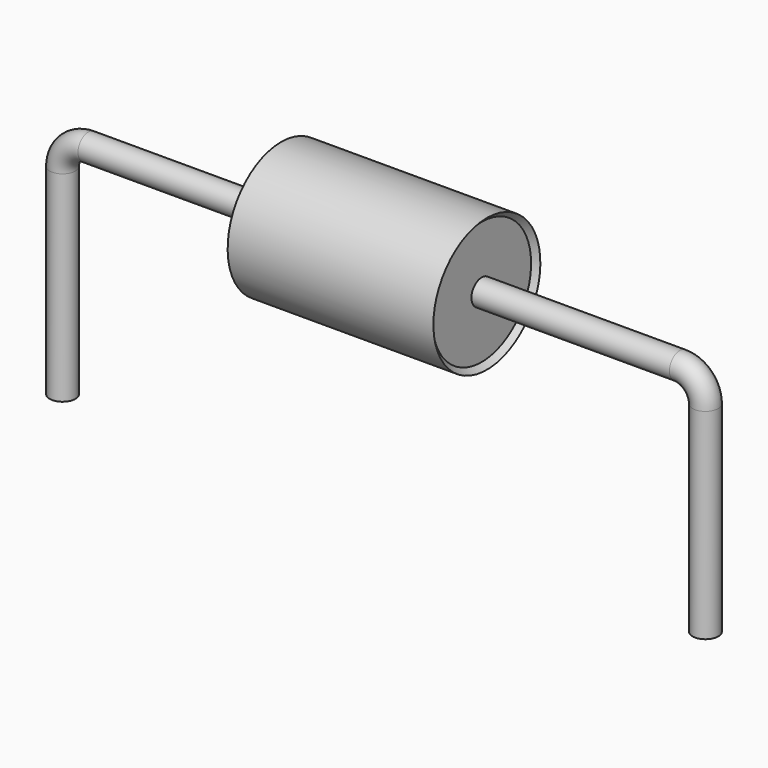
from build123d import *

# Parameters (mm, degrees)
SKETCH_R = 0.25


with BuildPart() as sweep_body:
    # Sweep: sweep along a path in Sketch001
    with BuildLine(Plane.XZ) as sweep_path:
        Line((0, -3), (0, 0.9))
        ThreePointArc((0, 0.9), (0.146443, 1.25355), (0.499991, 1.4))
        Line((0.499991, 1.4), (12, 1.4))
        ThreePointArc((12, 1.4), (12.353553, 1.253553), (12.5, 0.9))
        Line((12.5, 0.9), (12.5, -3))
    # Sketch → Sweep (sweep)
    with BuildSketch(Plane.XY.offset(-2)):
        Circle(SKETCH_R)
    sweep(path=sweep_path.line)


with BuildPart() as revolution:
    # Sketch002 → Revolution (revolve)
    with BuildSketch(Plane.XZ):
        Polygon((4.25, 2.7), (8.25, 2.7), (8.15, 2.6), (8.15, 1.4), (4.35, 1.4), (4.35, 2.6), align=None)
    revolve(axis=Axis((7.611803, 0, 1.4), (1, 0, 0)))


solid = Compound([sweep_body.part, revolution.part])
